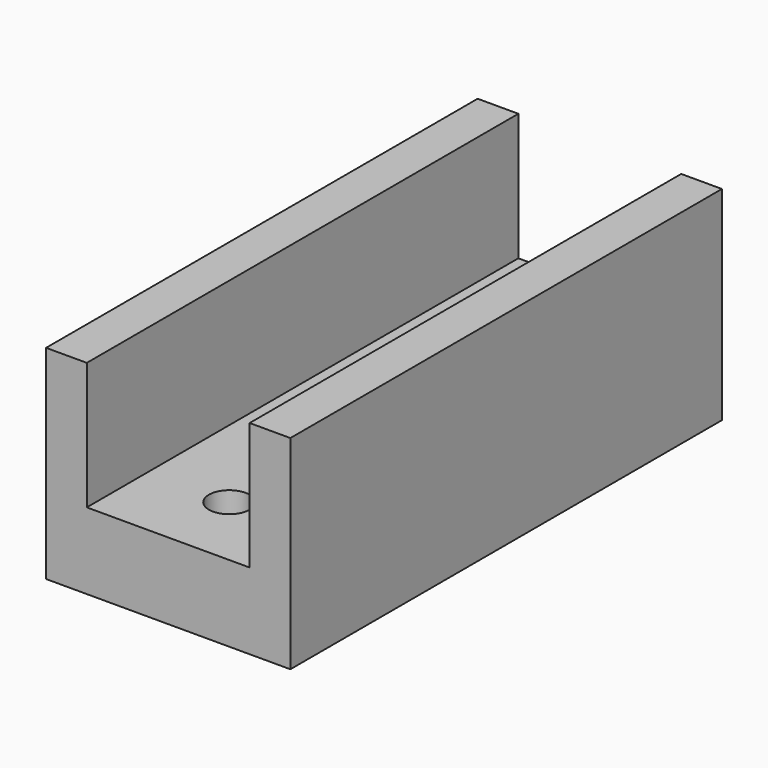
from build123d import *

# Parameters (mm, degrees)
F0_W           = 48
F0_H           = 106
F1_DEPTH       = 7.5
F4_DEPTH       = 25
F6_D           = 5.5
F6_CBORE_D     = 8
F6_CBORE_DEPTH = 6


with BuildPart() as f1:
    # F0 (on Top) → F1 (new body, symmetric)
    with BuildSketch(Plane.XY):
        with Locations((9.722433, 20.829119)):
            Rectangle(F0_W, F0_H)
    extrude(amount=F1_DEPTH, both=True)

    # F3 (on face) → F4 (join)
    with BuildSketch(Plane.XY.offset(7.5)):
        Polygon((-6.277567, 20.829119), (-6.277567, 73.829119), (-14.277567, 73.829119), (-14.277567, -32.170881), (-6.277567, -32.170881), align=None)
        Polygon((33.722433, 73.829119), (25.722433, 73.829119), (25.722433, 20.829119), (25.722433, -32.170881), (33.722433, -32.170881), align=None)
    extrude(amount=F4_DEPTH)

    # F6 (through all)
    with Locations(Plane.XY.offset(7.5)):
        with Locations((9.722433, 40.829119), (9.722433, 60.829119), (9.722433, 2.829119), (9.722433, -17.170881)):
            CounterBoreHole(F6_D / 2, F6_CBORE_D / 2, F6_CBORE_DEPTH)


solid = f1.part
